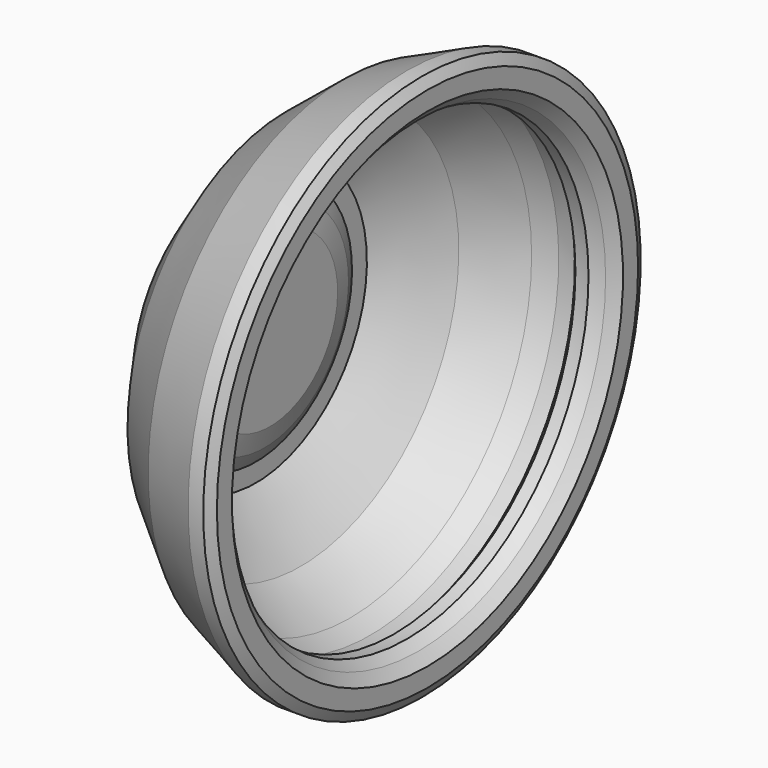
from build123d import *


with BuildPart() as f1:
    # F0 (on Front) → F1 (revolve)
    with BuildSketch(Plane.XZ):
        Polygon((0, 16.911296), (0, 0), (44.608466, 0), (44.608466, 21.264633), (44.608466, 38.319539), (44.608466, 55.661686), (40.960189, 69.201611), (35.32194, 79.182148), (35.32194, 91.453612), (64.839803, 130.268559), (97.342625, 149.649769), (110.609077, 155.38694), (121.22225, 155.38694), (126.197159, 149.649769), (134.820357, 149.649769), (142.448574, 154.217899), (148.418486, 161.100805), (148.418486, 173.519328), (144.770205, 180.207044), (134.820357, 180.207044), (94.357669, 162.556574), (54.889966, 130.268559), (21.0605, 83.4525), (21.0605, 65.94637), (28.025387, 65.94637), (28.025387, 52.313879), (18.738873, 52.313879), (18.738873, 48.949644), (32.005329, 48.949644), (32.005329, 31.426087), (18.738873, 31.426087), (18.738873, 16.911296), align=None)
    revolve(axis=Axis((22.304233, 0, 0), (-1, 0, 0)))


solid = f1.part
